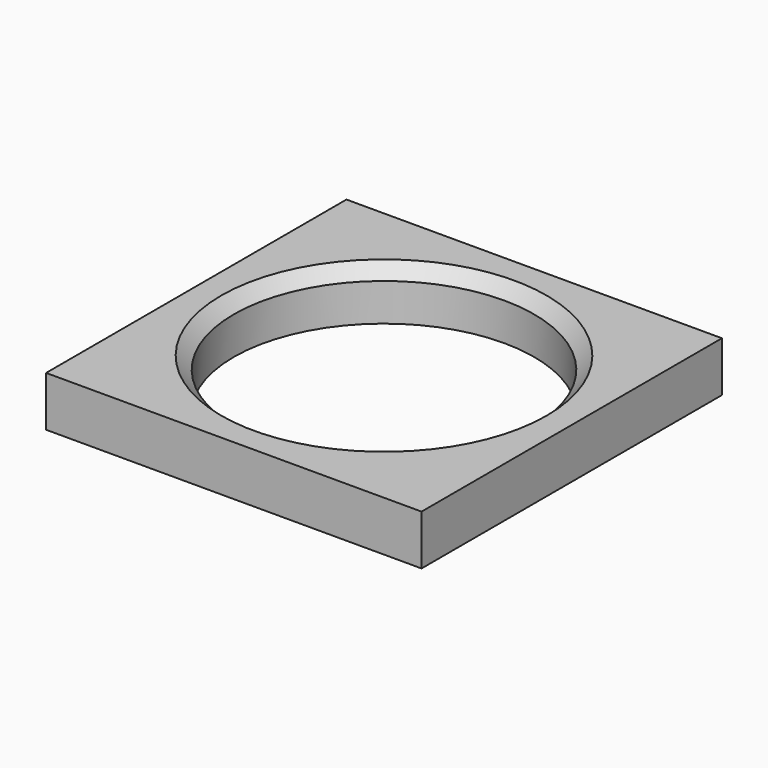
from build123d import *

# Parameters (mm, degrees)
F0_W     = 30
F0_H     = 30
F0_R     = 12
F1_DEPTH = 4
F2_SIZE  = 1


with BuildPart() as f1:
    # F0 (on Top) → F1 (new body)
    with BuildSketch(Plane.XY):
        Rectangle(F0_W, F0_H)
        Circle(F0_R, mode=Mode.SUBTRACT)
    extrude(amount=F1_DEPTH)

    # F2
    f2_edges = [f1.edges().sort_by_distance(p)[0] for p in [
        (-12, 0, 4),
    ]]
    chamfer(f2_edges, length=F2_SIZE)


solid = f1.part
